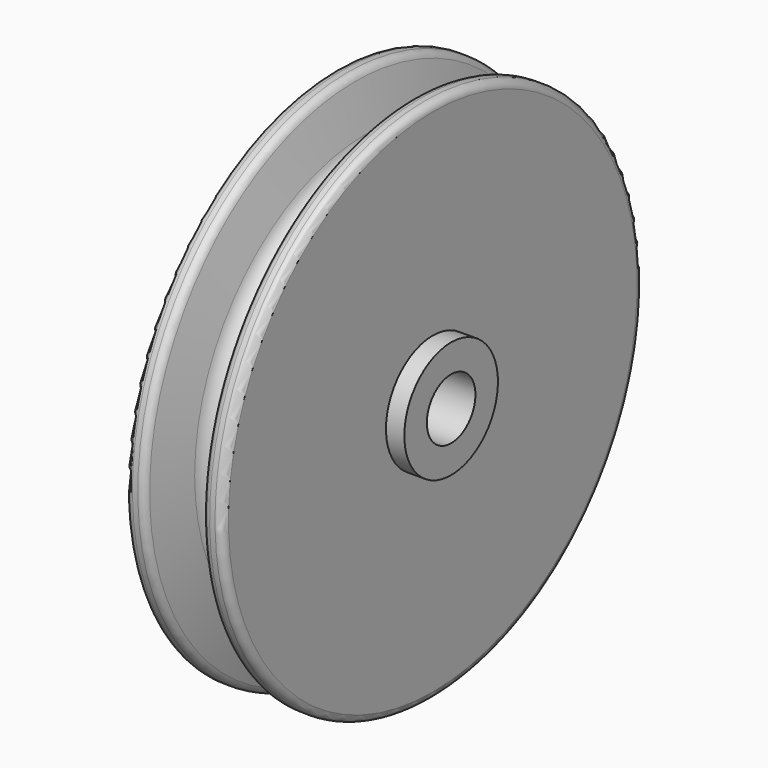
from build123d import *

# Parameters (mm, degrees)
F2_R = 1.27


with BuildPart() as f1:
    # F0 (on Front) → F1 (revolve)
    with BuildSketch(Plane.XZ):
        with BuildLine():
            Line((-11.3665, 9.906), (-11.3665, 5.1435))
            Line((-11.3665, 5.1435), (11.3665, 5.1435))
            Line((11.3665, 5.1435), (11.3665, 9.906))
            Line((11.3665, 9.906), (8.255, 9.906))
            Line((8.255, 9.906), (8.255, 44.5135))
            Line((8.255, 44.5135), (5.08, 44.5135))
            Line((5.08, 44.5135), (3.087222, 36.215591))
            ThreePointArc((3.087222, 36.215591), (0, 33.782), (-3.087222, 36.215591))
            Line((-3.087222, 36.215591), (-5.08, 44.5135))
            Line((-5.08, 44.5135), (-8.255, 44.5135))
            Line((-8.255, 44.5135), (-8.255, 9.906))
            Line((-8.255, 9.906), (-11.3665, 9.906))
        make_face()
    revolve(axis=Axis((0, 0, 0), (1, 0, 0)))

    # F2
    f2_edges = [f1.edges().sort_by_distance(p)[0] for p in [
        (-5.08, 0, -44.5135),
        (-8.255, 0, -44.5135),
        (-6.6675, 0, 44.5135),
        (8.255, 0, -44.5135),
        (5.08, 0, -44.5135),
        (6.6675, 0, 44.5135),
    ]]
    fillet(f2_edges, radius=F2_R)


solid = f1.part
